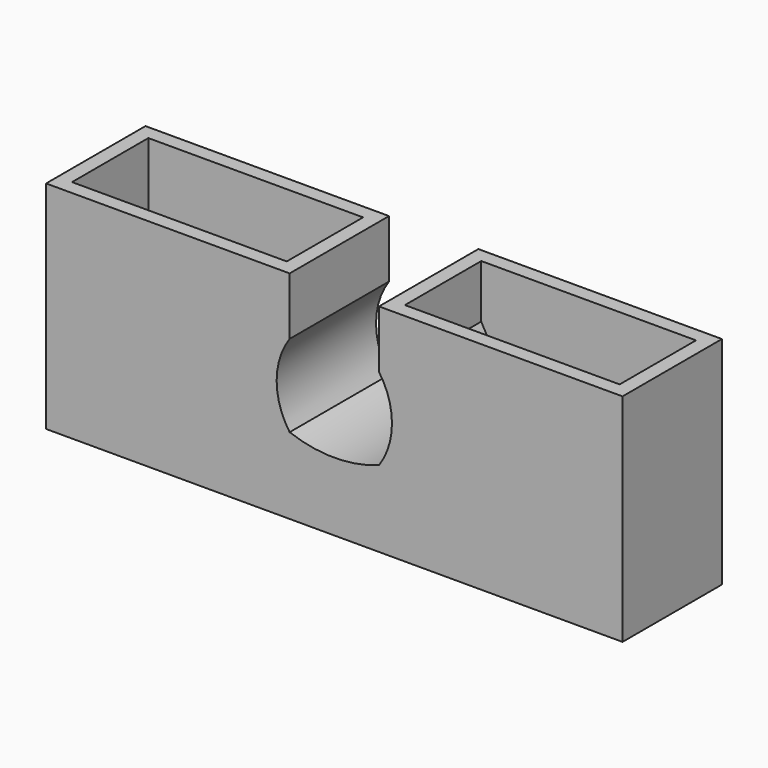
from build123d import *

# Parameters (mm, degrees)
F1_DEPTH = 21.8948
F3_DEPTH = 25.4
F4_T     = -2.54
F5_ANGLE = 180


with BuildPart() as f1:
    # F0 (on Front) → F1 (new body)
    with BuildSketch(Plane.XZ):
        Polygon((-50.8, 0), (0, 0), (50.8, 0), (50.8, 38.1), (-50.8, 38.1), align=None)
    extrude(amount=F1_DEPTH)

    # F2 (on Front) → F3 (cut)
    with BuildSketch(Plane.XZ):
        with BuildLine():
            ThreePointArc((-7.874, 24.638), (-10.16, 17.399), (-7.874, 10.16))
            Line((-7.874, 10.16), (-7.874, 0))
            Line((-7.874, 0), (7.874, 0))
            Line((7.874, 0), (7.874, 10.16))
            ThreePointArc((7.874, 10.16), (10.16, 17.399), (7.874, 24.638))
            ThreePointArc((7.874, 24.638), (0, 26.035), (-7.874, 24.638))
        make_face()
    extrude(amount=F3_DEPTH, mode=Mode.SUBTRACT)

    # F4
    f4_openings = [f1.faces().sort_by_distance(p)[0] for p in [
        (29.337, -10.9474, 0),
        (-29.337, -10.9474, 0),
    ]]
    offset(amount=F4_T, openings=f4_openings, kind=Kind.INTERSECTION)


with BuildPart() as f1_1:
    # F5: moved
    add(f1.part.rotate(Axis((50.8, -10.9474, 0), (0, 1, 0)), F5_ANGLE))


solid = f1_1.part
